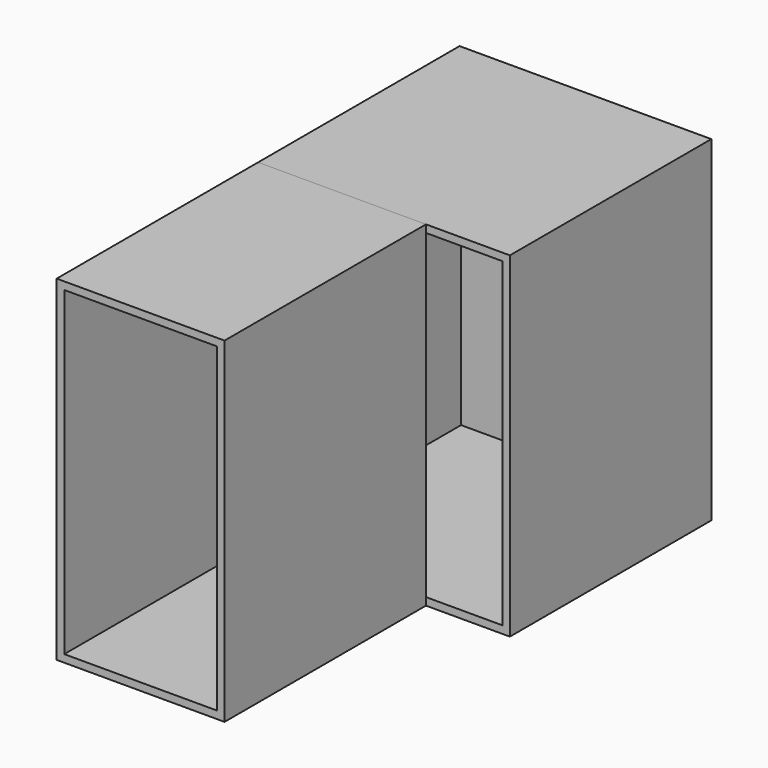
from build123d import *

# Parameters (mm, degrees)
F0_W     = 600
F0_H     = 600
F1_DEPTH = 800
F2_W     = 400
F2_H     = 600
F3_DEPTH = 800
F4_T     = -18
F5_T     = -18


with BuildPart() as f1:
    # F0 (on Top) → F1 (new body)
    with BuildSketch(Plane.XY):
        with Locations((300, 300)):
            Rectangle(F0_W, F0_H)
    extrude(amount=F1_DEPTH)

    # F5
    f5_openings = [f1.faces().sort_by_distance(p)[0] for p in [
        (300, 0, 400),
    ]]
    offset(amount=F5_T, openings=f5_openings)


with BuildPart() as f3:
    # F2 (on Top) → F3 (new body)
    with BuildSketch(Plane.XY):
        with Locations((200, -300)):
            Rectangle(F2_W, F2_H)
    extrude(amount=F3_DEPTH)

    # F4
    f4_openings = [f3.faces().sort_by_distance(p)[0] for p in [
        (200, -600, 400),
    ]]
    offset(amount=F4_T, openings=f4_openings)


solid = Compound([f1.part, f3.part])
